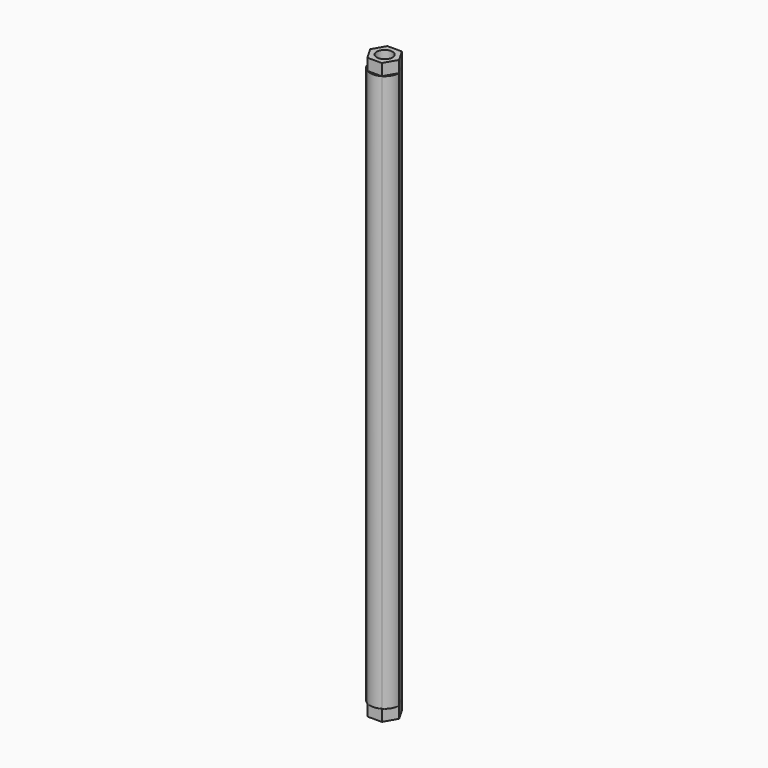
from build123d import *

# Parameters (mm, degrees)
F0_R          = 3.96875
F0_R_2        = 2.15265
F1_DEPTH      = 152.4
F3_R          = 2.15265
F4_DEPTH      = 3.175
F4_DEPTH_BACK = 155.575
F5_DEPTH      = 152.4


with BuildPart() as f1:
    # F0 (on Top) → F1 (new body)
    with BuildSketch(Plane.XY):
        Circle(F0_R)
        Circle(F0_R_2, mode=Mode.SUBTRACT)
    extrude(amount=F1_DEPTH)

    # F3 (on face) → F4 (join, two sides)
    with BuildSketch(Plane(origin=(0, 0, 0), x_dir=(1, 0, 0), z_dir=(0, 0, -1))) as f4_sk:
        Polygon((1.984375, -3.4370383213), (3.96875, 0), (1.984375, 3.4370383213), (-1.984375, 3.4370383213), (-3.96875, 0), (-1.984375, -3.4370383213), align=None)
        Circle(F3_R, mode=Mode.SUBTRACT)
    extrude(amount=F4_DEPTH)
    extrude(f4_sk.sketch, amount=-F4_DEPTH_BACK)

    # F5 (cut, through all): a face of the model
    f5_faces = [f1.faces().sort_by_distance(p)[0] for p in [
        (3.1618531236, 1.8254967521, 0),
    ]]
    extrude(f5_faces, amount=-F5_DEPTH, mode=Mode.SUBTRACT)


solid = f1.part
